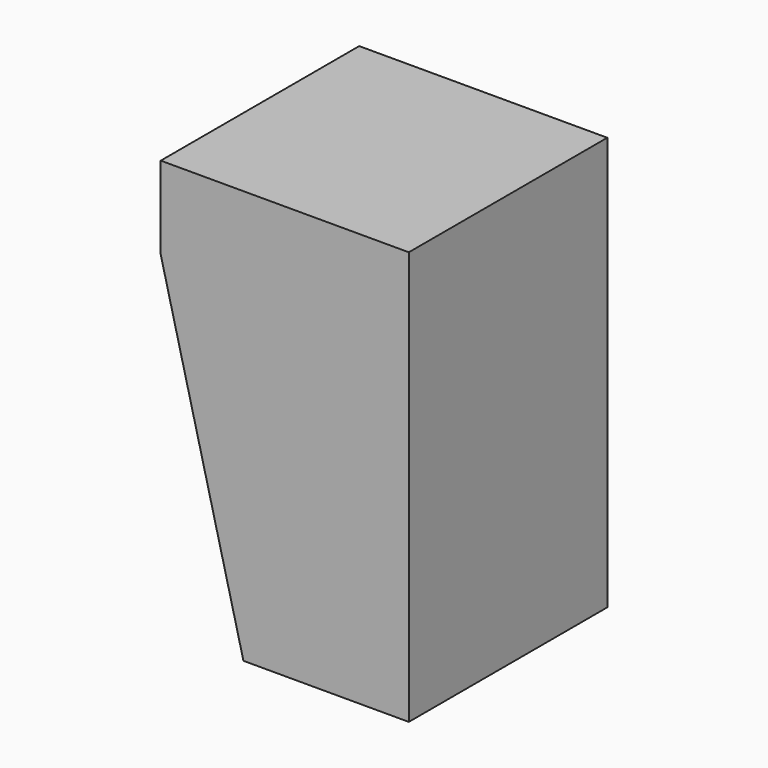
from build123d import *

# Parameters (mm, degrees)
F0_W     = 76.2
F0_H     = 127
F1_DEPTH = 38.1
F3_DEPTH = 76.201


with BuildPart() as f1:
    # F0 (on Front) → F1 (new body, symmetric)
    with BuildSketch(Plane.XZ):
        Rectangle(F0_W, F0_H)
    extrude(amount=F1_DEPTH, both=True)

    # F2 (on face) → F3 (cut, through all)
    with BuildSketch(Plane.XZ.offset(38.1)):
        Polygon((-38.1, 38.1), (-38.1, -63.5), (-12.7, -63.5), align=None)
    extrude(amount=-F3_DEPTH, mode=Mode.SUBTRACT)


solid = f1.part
